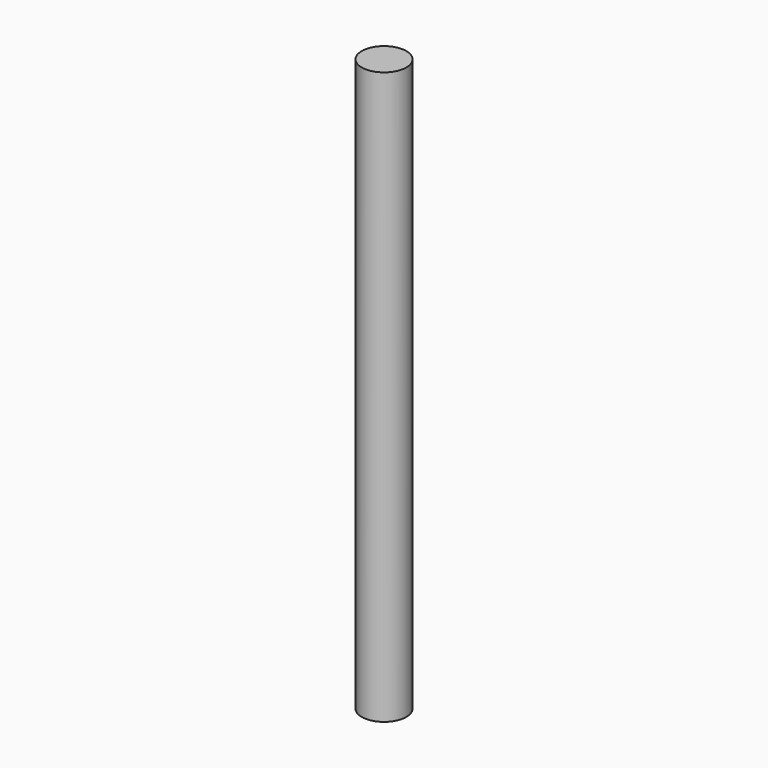
from build123d import *

# Parameters (mm, degrees)
SKETCH_R  = 6
PAD_DEPTH = 154


with BuildPart() as part:
    # Sketch → Pad (new body)
    with BuildSketch(Plane.XY):
        Circle(SKETCH_R)
    extrude(amount=PAD_DEPTH)


solid = part.part
